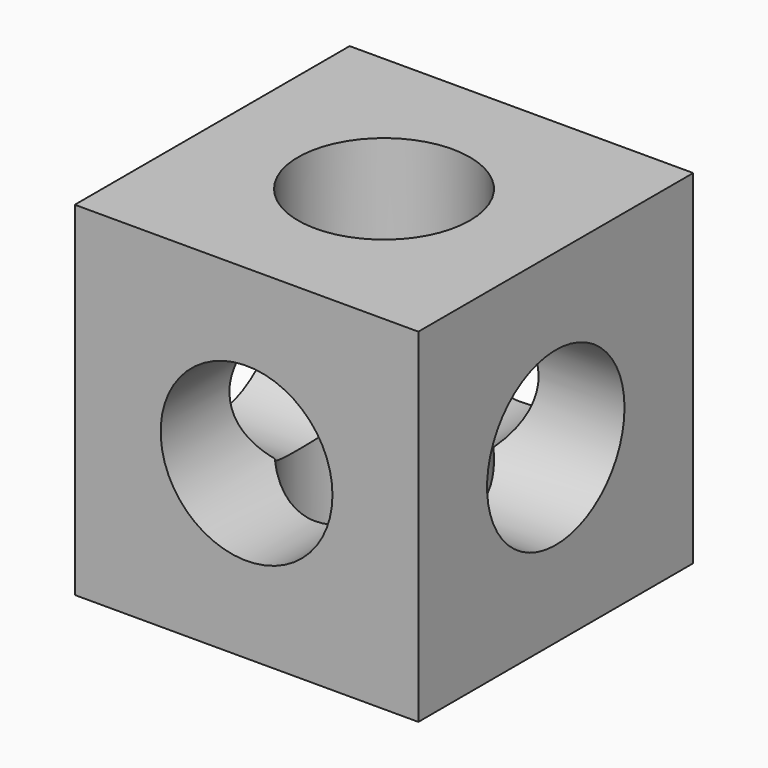
from build123d import *

# Parameters (mm, degrees)
F0_W     = 101.6
F0_H     = 101.6
F1_DEPTH = 50.8
F2_R     = 25.4
F3_DEPTH = 101.601
F4_R     = 25.4
F5_DEPTH = 101.601
F6_R     = 25.4
F7_DEPTH = 101.601


with BuildPart() as f1:
    # F0 (on Front) → F1 (new body, symmetric)
    with BuildSketch(Plane.XZ):
        Rectangle(F0_W, F0_H)
    extrude(amount=F1_DEPTH, both=True)

    # F2 (on face) → F3 (cut, through all)
    with BuildSketch(Plane.XZ.offset(50.8)):
        Circle(F2_R)
    extrude(amount=-F3_DEPTH, mode=Mode.SUBTRACT)

    # F4 (on face) → F5 (cut, through all)
    with BuildSketch(Plane.YZ.offset(50.8)):
        Circle(F4_R)
    extrude(amount=-F5_DEPTH, mode=Mode.SUBTRACT)

    # F6 (on face) → F7 (cut, through all)
    with BuildSketch(Plane.XY.offset(50.8)):
        Circle(F6_R)
    extrude(amount=-F7_DEPTH, mode=Mode.SUBTRACT)


solid = f1.part
